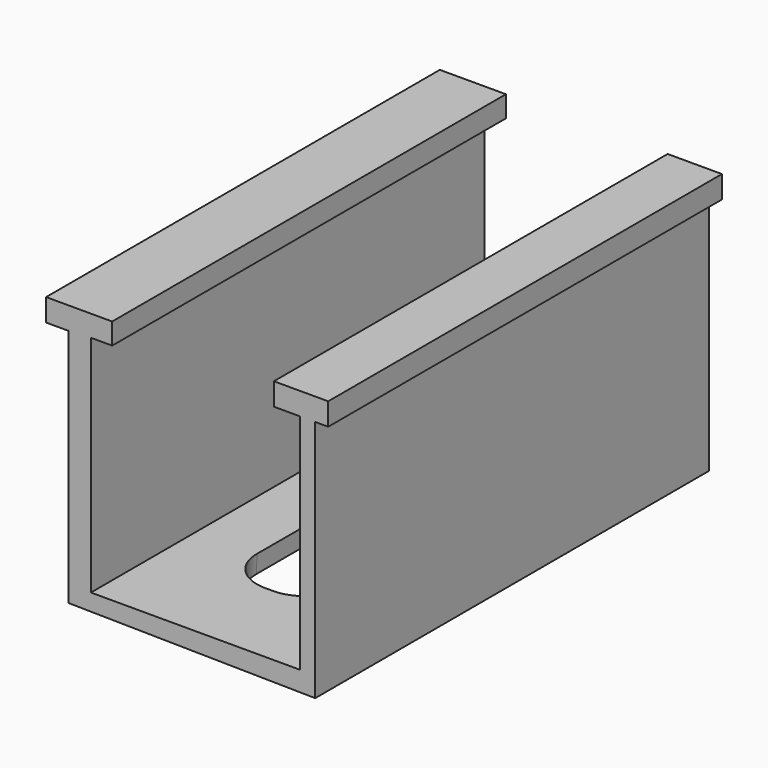
from build123d import *

# Parameters (mm, degrees)
F1_DEPTH = 120
F3_DEPTH = 25
F4_DEPTH = 25


with BuildPart() as f1:
    # F0 (on Front) → F1 (new body)
    with BuildSketch(Plane.XZ):
        Polygon((-31.802535, 29.50009), (-31.802535, 34.680594), (-47.919657, 34.680594), (-47.919657, 29.212285), (-42.451348, 29.212285), (-42.451348, -29.212285), (17.700056, -30.075703), (17.700056, 29.212285), (20.865917, 29.212285), (20.865917, 34.680594), (7.626853, 34.680594), (7.626853, 29.212285), (13.958578, 29.212285), (13.958578, -25.183003), (-36.983039, -25.183003), (-36.983039, 29.50009), align=None)
    extrude(amount=F1_DEPTH)

    # F2 (on face) → F3 (cut)
    with BuildSketch(Plane(origin=(-0.427974, 0, -29.815492), x_dir=(0.999897, 0, -0.014353), z_dir=(-0.014353, 0, -0.999897))):
        with BuildLine():
            Line((-10, 97.833304), (-11.900108, 97.833304))
            ThreePointArc((-11.900108, 97.833304), (-18.971176, 94.904371), (-21.900108, 87.833304))
            Line((-21.900108, 87.833304), (-21.900108, 26.494442))
            ThreePointArc((-21.900108, 26.494442), (-18.971176, 19.423374), (-11.900108, 16.494442))
            Line((-11.900108, 16.494442), (-10, 16.494442))
            ThreePointArc((-10, 16.494442), (-2.928932, 19.423374), (0, 26.494442))
            Line((0, 26.494442), (0, 87.833304))
            ThreePointArc((0, 87.833304), (-2.928932, 94.904371), (-10, 97.833304))
        make_face()
    extrude(amount=F3_DEPTH, mode=Mode.SUBTRACT)

    # F2 (on face) → F4 (cut)
    with BuildSketch(Plane(origin=(-0.427974, 0, -29.815492), x_dir=(0.999897, 0, -0.014353), z_dir=(-0.014353, 0, -0.999897))):
        with BuildLine():
            Line((-10, 97.833304), (-11.900108, 97.833304))
            ThreePointArc((-11.900108, 97.833304), (-18.971176, 94.904371), (-21.900108, 87.833304))
            Line((-21.900108, 87.833304), (-21.900108, 26.494442))
            ThreePointArc((-21.900108, 26.494442), (-18.971176, 19.423374), (-11.900108, 16.494442))
            Line((-11.900108, 16.494442), (-10, 16.494442))
            ThreePointArc((-10, 16.494442), (-2.928932, 19.423374), (0, 26.494442))
            Line((0, 26.494442), (0, 87.833304))
            ThreePointArc((0, 87.833304), (-2.928932, 94.904371), (-10, 97.833304))
        make_face()
    extrude(amount=-F4_DEPTH, mode=Mode.SUBTRACT)


solid = f1.part
